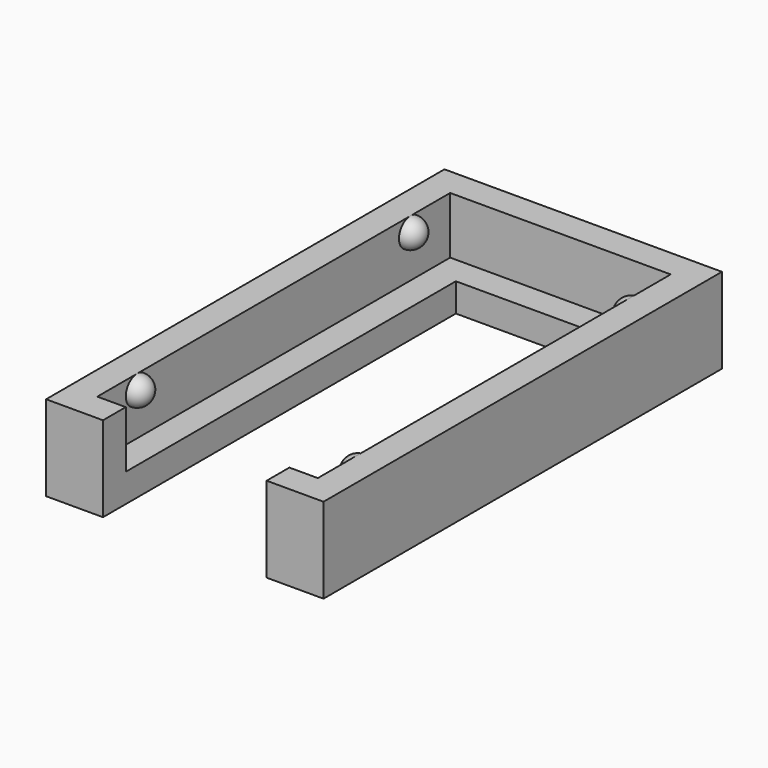
from build123d import *

# Parameters (mm, degrees)
SKETCH070_W         = 19.5
SKETCH070_H         = 35
PAD035_DEPTH        = 6
SKETCH074_W         = 15.5
SKETCH074_H         = 31
POCKET025_DEPTH     = 4
SKETCH071_W         = 11.5
SKETCH071_H         = 27
POCKET023_DEPTH     = 2.001
SKETCH069_W         = 11.5
SKETCH069_H         = 4
POCKET024_DEPTH     = 6.001
REVOLUTION007_ANGLE = 180
REVOLUTION008_ANGLE = -180


with BuildPart() as part:
    # Sketch070 → Pad035 (new body)
    with BuildSketch(Plane.XY):
        with Locations((9.75, 17.5)):
            Rectangle(SKETCH070_W, SKETCH070_H)
    extrude(amount=PAD035_DEPTH)

    # Sketch074 (on Face6 of Pad035) → Pocket025 (cut)
    with BuildSketch(Plane.XY.offset(6)):
        with Locations((9.75, 17.5)):
            Rectangle(SKETCH074_W, SKETCH074_H)
    extrude(amount=-POCKET025_DEPTH, mode=Mode.SUBTRACT)

    # Sketch071 (on Face11 of Pocket025) → Pocket023 (cut, through all)
    with BuildSketch(Plane.XY.offset(2)):
        with Locations((9.75, 17.5)):
            Rectangle(SKETCH071_W, SKETCH071_H)
    extrude(amount=-POCKET023_DEPTH, mode=Mode.SUBTRACT)

    # Sketch069 (on Face5 of Pocket023) → Pocket024 (cut, through all)
    with BuildSketch(Plane.XY.offset(6)):
        with Locations((9.75, 2)):
            Rectangle(SKETCH069_W, SKETCH069_H)
    extrude(amount=-POCKET024_DEPTH, mode=Mode.SUBTRACT)

    # Sketch075 (on Face18 of Pocket024) → Revolution007 (revolve)
    with BuildSketch(Plane.YZ.offset(2)):
        with BuildLine():
            ThreePointArc((6.5, 5), (5.5, 6), (4.5, 5))
            Line((4.5, 5), (6.5, 5))
        make_face()
        with BuildLine():
            ThreePointArc((30.5, 5), (29.5, 6), (28.5, 5))
            Line((28.5, 5), (30.5, 5))
        make_face()
    revolve(axis=Axis((2, 6.5, 5), (0, 1, 0)), revolution_arc=REVOLUTION007_ANGLE)

    # Sketch076 (on Face17 of Revolution007) → Revolution008 (revolve)
    with BuildSketch(Plane(origin=(17.5, 0, 0), x_dir=(0, -1, 0), z_dir=(-1, 0, 0))):
        with BuildLine():
            ThreePointArc((-28.5, 5), (-29.5, 6), (-30.5, 5))
            Line((-30.5, 5), (-28.5, 5))
        make_face()
        with BuildLine():
            ThreePointArc((-4.5, 5), (-5.5, 6), (-6.5, 5))
            Line((-6.5, 5), (-4.5, 5))
        make_face()
    revolve(axis=Axis((17.5, 6.5, 5), (0, 1, 0)), revolution_arc=REVOLUTION008_ANGLE)


solid = part.part
